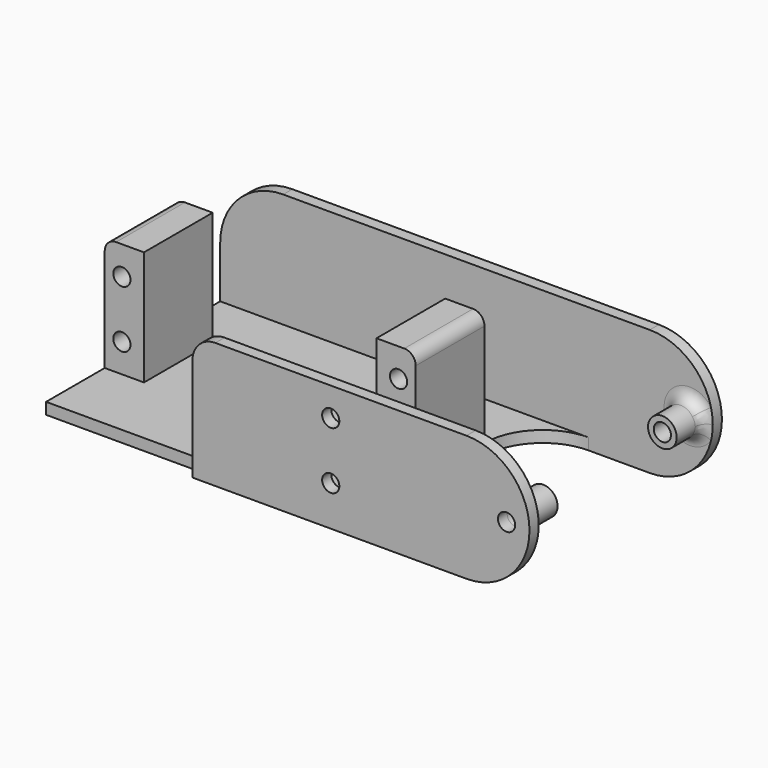
from build123d import *

# Parameters (mm, degrees)
SKETCH_W        = 54.3
SKETCH_H        = 38
PAD_DEPTH       = 2
SKETCH003_W     = 6.85
SKETCH003_H     = 15
PAD001_DEPTH    = 20
SKETCH010_W     = 6.85
SKETCH010_H     = 15
PAD002_DEPTH    = 20
SKETCH004_R     = 1.5
POCKET_DEPTH    = 15
SKETCH002_R     = 1.5
POCKET001_DEPTH = 15
SKETCH005_R     = 1.5
PAD003_DEPTH    = 2
SKETCH007_R     = 1.5
PAD004_DEPTH    = 2
SKETCH006_R     = 2.95
PAD005_DEPTH    = 5
SKETCH008_R     = 2.5
SKETCH008_R_2   = 1.5
PAD006_DEPTH    = 6
SKETCH009_R     = 2.5
SKETCH009_R_2   = 1.5
PAD007_DEPTH    = 6
FILLET_R        = 10
FILLET001_R     = 10
FILLET002_R     = 2
FILLET003_R     = 2
FILLET004_R     = 2
FILLET005_R     = 2
FILLET006_R     = 4


with BuildPart() as part:
    # Sketch → Pad (new body)
    with BuildSketch(Plane.XY.offset(2)):
        Rectangle(SKETCH_W, SKETCH_H)
    extrude(amount=PAD_DEPTH)

    # Sketch003 (on Face6 of Pad) → Pad001 (join)
    with BuildSketch(Plane.XY.offset(4)):
        with Locations((23.725, 1.3)):
            Rectangle(SKETCH003_W, SKETCH003_H)
    extrude(amount=PAD001_DEPTH)

    # Sketch010 (on Face5 of Pad001) → Pad002 (join)
    with BuildSketch(Plane.XY.offset(4)):
        with Locations((-23.725, 1.3)):
            Rectangle(SKETCH010_W, SKETCH010_H)
    extrude(amount=PAD002_DEPTH)

    # Sketch004 (on Face12 of Pad002) → Pocket (cut)
    with BuildSketch(Plane(origin=(0, -6.2, 2), x_dir=(1, 0, 0), z_dir=(0, -1, 0))):
        with Locations((-24.15, 7)):
            Circle(SKETCH004_R)
        with Locations((-24.15, 17)):
            Circle(SKETCH004_R)
    extrude(amount=-POCKET_DEPTH, mode=Mode.SUBTRACT)

    # Sketch002 (on Face11 of Pocket) → Pocket001 (cut)
    with BuildSketch(Plane(origin=(0, -6.2, 2), x_dir=(1, 0, 0), z_dir=(0, -1, 0))):
        with Locations((24.15, 17)):
            Circle(SKETCH002_R)
        with Locations((24.15, 7)):
            Circle(SKETCH002_R)
    extrude(amount=-POCKET001_DEPTH, mode=Mode.SUBTRACT)

    # Sketch005 (on Face1 of Pocket001) → Pad003 (join)
    with BuildSketch(Plane(origin=(0, 19, 2), x_dir=(-1, 0, 0), z_dir=(0, 1, 0))):
        with BuildLine():
            Line((16.15, 22), (-47.85, 22))
            ThreePointArc((-47.85, 22), (-58.85, 11), (-47.85, 0))
            Line((27.15, 0), (-47.85, 0))
            Line((27.15, 0), (27.15, 11))
            ThreePointArc((27.15, 11), (23.928175, 18.778175), (16.15, 22))
        make_face()
        with Locations((-54.85, 11)):
            Circle(SKETCH005_R, mode=Mode.SUBTRACT)
    extrude(amount=PAD003_DEPTH)

    # Sketch007 (on Face2 of Pad003) → Pad004 (join)
    with BuildSketch(Plane(origin=(0, -19, 2), x_dir=(1, 0, 0), z_dir=(0, -1, 0))):
        with BuildLine():
            Line((0, 22), (0, 0))
            Line((0, 0), (47.85, 0))
            ThreePointArc((47.85, 0), (58.85, 11), (47.85, 22))
            Line((0, 22), (47.85, 22))
        make_face()
        with Locations((54.85, 11)):
            Circle(SKETCH007_R, mode=Mode.SUBTRACT)
        with Locations((24.15, 7)):
            Circle(SKETCH007_R, mode=Mode.SUBTRACT)
        with Locations((24.15, 17)):
            Circle(SKETCH007_R, mode=Mode.SUBTRACT)
    extrude(amount=PAD004_DEPTH)

    # Sketch006 (on Face11 of Pad004) → Pad005 (join)
    with BuildSketch(Plane(origin=(0, 21, 2), x_dir=(-1, 0, 0), z_dir=(0, 1, 0))):
        with Locations((10.1, 12)):
            Circle(SKETCH006_R)
    extrude(amount=PAD005_DEPTH)

    # Sketch008 (on Face17 of Pad005) → Pad006 (join)
    with BuildSketch(Plane(origin=(0, -19, 2), x_dir=(-1, 0, 0), z_dir=(0, 1, 0))):
        with Locations((-54.85, 11)):
            Circle(SKETCH008_R)
        with Locations((-54.85, 11)):
            Circle(SKETCH008_R_2, mode=Mode.SUBTRACT)
    extrude(amount=PAD006_DEPTH)

    # Sketch009 (on Face10 of Pad006) → Pad007 (join)
    with BuildSketch(Plane(origin=(0, 19, 2), x_dir=(1, 0, 0), z_dir=(0, -1, 0))):
        with Locations((54.85, 11)):
            Circle(SKETCH009_R)
        with Locations((54.85, 11)):
            Circle(SKETCH009_R_2, mode=Mode.SUBTRACT)
    extrude(amount=PAD007_DEPTH)

    # Fillet
    fillet_edges = [part.edges().sort_by_distance(p)[0] for p in [
        (27.15, -19, 3),
    ]]
    fillet(fillet_edges, radius=FILLET_R)

    # Fillet001
    fillet001_edges = [part.edges().sort_by_distance(p)[0] for p in [
        (27.15, 19, 3),
    ]]
    fillet(fillet001_edges, radius=FILLET001_R)

    # Fillet002
    fillet002_edges = [part.edges().sort_by_distance(p)[0] for p in [
        (52.35, 19, 13),
    ]]
    fillet(fillet002_edges, radius=FILLET002_R)

    # Fillet003
    fillet003_edges = [part.edges().sort_by_distance(p)[0] for p in [
        (57.35, -19, 13),
    ]]
    fillet(fillet003_edges, radius=FILLET003_R)

    # Fillet004
    fillet004_edges = [part.edges().sort_by_distance(p)[0] for p in [
        (27.15, 1.3, 24),
    ]]
    fillet(fillet004_edges, radius=FILLET004_R)

    # Fillet005
    fillet005_edges = [part.edges().sort_by_distance(p)[0] for p in [
        (-27.15, 1.3, 24),
    ]]
    fillet(fillet005_edges, radius=FILLET005_R)

    # Fillet006
    fillet006_edges = [part.edges().sort_by_distance(p)[0] for p in [
        (0, -20, 24),
    ]]
    fillet(fillet006_edges, radius=FILLET006_R)


solid = part.part
